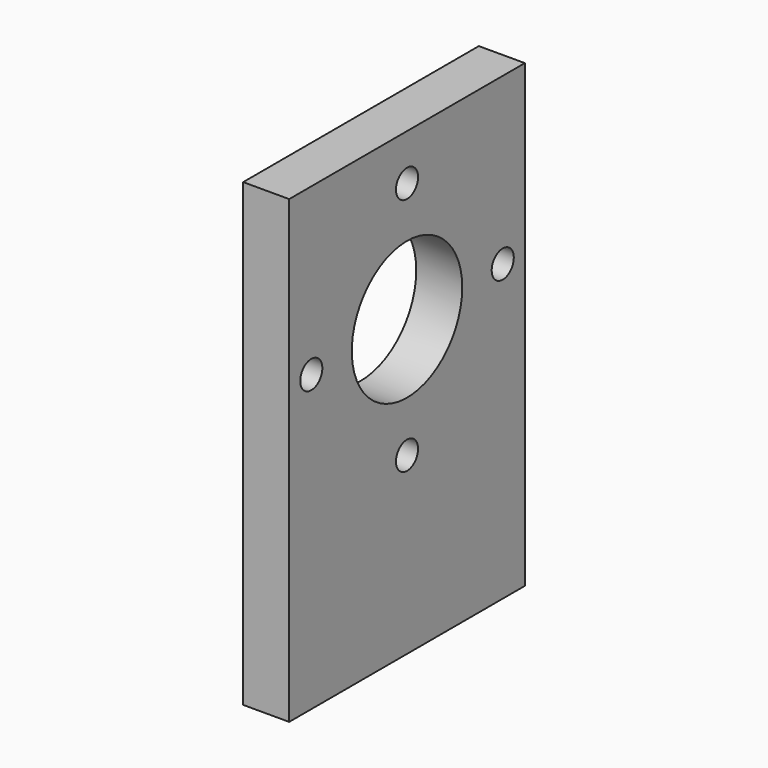
from build123d import *

# Parameters (mm, degrees)
F0_W     = 32
F0_H     = 50
F0_R     = 1.5
F0_R_2   = 7.5
F1_DEPTH = 5


with BuildPart() as f1:
    # F0 (on Right) → F1 (new body)
    with BuildSketch(Plane.YZ):
        with Locations((0, -7)):
            Rectangle(F0_W, F0_H)
        with Locations((0, -13)):
            Circle(F0_R, mode=Mode.SUBTRACT)
        with Locations((-13, 0)):
            Circle(F0_R, mode=Mode.SUBTRACT)
        Circle(F0_R_2, mode=Mode.SUBTRACT)
        with Locations((13, 0)):
            Circle(F0_R, mode=Mode.SUBTRACT)
        with Locations((0, 13)):
            Circle(F0_R, mode=Mode.SUBTRACT)
    extrude(amount=F1_DEPTH)


solid = f1.part
